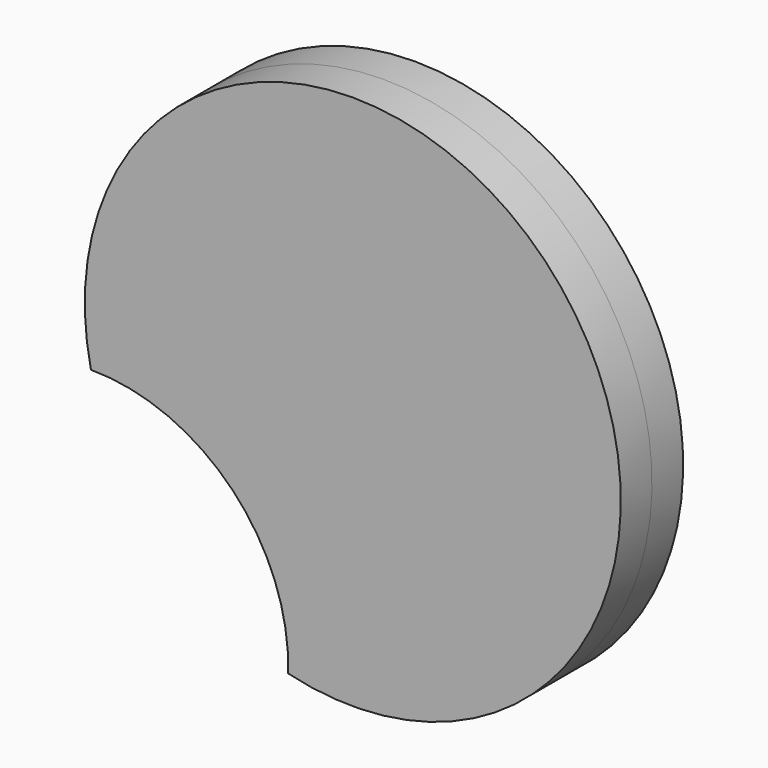
from build123d import *

# Parameters (mm, degrees)
F1_DEPTH = 5.334
F2_DEPTH = 5.334


with BuildPart() as f1:
    # F0 (on Front) → F1 (new body)
    with BuildSketch(Plane.XZ):
        with BuildLine():
            ThreePointArc((0, 27.813477), (19.38787, 19.623157), (26.997242, 0))
            ThreePointArc((26.997242, 0), (62.178441, 61.157963), (0, 27.813477))
        make_face()
    extrude(amount=F1_DEPTH)

    # F1_face (on face) → F2 (join)
    with BuildSketch(Plane(origin=(37.887512, -5.334, 37.579895), x_dir=(1, 0, 0), z_dir=(0, -1, 0))):
        with BuildLine():
            ThreePointArc((-37.887512, -9.766418), (-18.499642, -17.956738), (-10.89027, -37.579895))
            ThreePointArc((-10.89027, -37.579895), (24.290928, 23.578068), (-37.887512, -9.766418))
        make_face()
    extrude(amount=F2_DEPTH)


solid = f1.part
